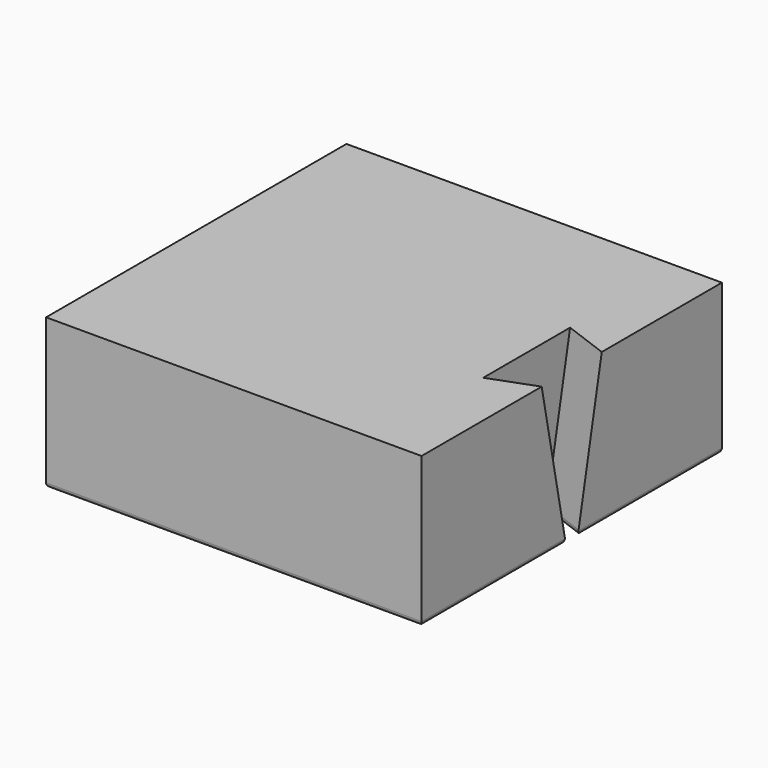
from build123d import *

# Parameters (mm, degrees)
F0_W     = 25
F0_H     = 25
F1_DEPTH = 10
F3_DEPTH = 3
F3_TAPER = -20
F4_R     = 0.3


with BuildPart() as f1:
    # F0 (on Top) → F1 (new body)
    with BuildSketch(Plane.XY):
        Rectangle(F0_W, F0_H)
    extrude(amount=F1_DEPTH)

    # F2 (on face) → F3 (cut)
    with BuildSketch(Plane.YZ.offset(12.5)):
        Polygon((2.5, 10), (-2.5, 10), (-0.5, 0), (0.5, 0), align=None)
    extrude(amount=-F3_DEPTH, taper=F3_TAPER, mode=Mode.SUBTRACT)

    # F4
    f4_edges = [f1.edges().sort_by_distance(p)[0] for p in [
        (-12.5, 0, 0),
        (0, 12.5, 0),
        (12.5, 6.5, 0),
        (11, 1.056767, 0),
        (9.5, 0, 0),
        (11, -1.056767, 0),
        (12.5, -6.5, 0),
        (0, -12.5, 0),
    ]]
    fillet(f4_edges, radius=F4_R)


solid = f1.part
